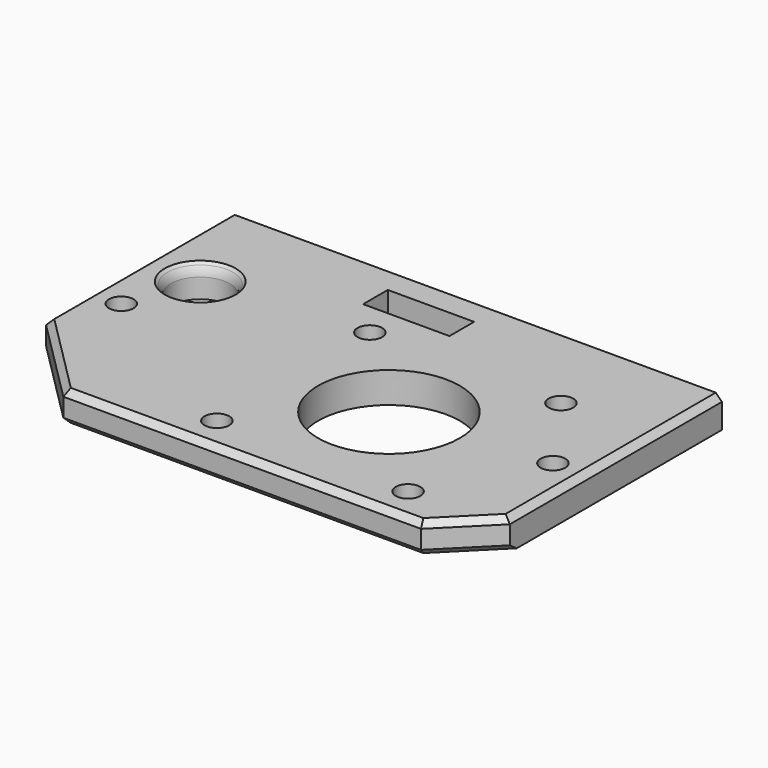
from build123d import *

# Parameters (mm, degrees)
SKETCH003_R     = 11.5
SKETCH003_R_2   = 2
SKETCH003_R_3   = 4.75
SKETCH003_W     = 14
SKETCH003_H     = 5
PAD001_DEPTH    = 5
PAD013_DEPTH    = 6
SKETCH048_R     = 1.4
POCKET038_DEPTH = 5
CHAMFER019_SIZE = 1
CHAMFER020_SIZE = 1
CHAMFER021_SIZE = 1
FILLET_R        = 2


with BuildPart() as part:
    # Sketch003 → Pad001 (new body)
    with BuildSketch(Plane.XY):
        Polygon((-40, 40), (40, 40), (40, -3), (32, -11), (-26, -11), (-40, 3), align=None)
        with Locations((10, 10)):
            Circle(SKETCH003_R, mode=Mode.SUBTRACT)
        with Locations((-35, 12)):
            Circle(SKETCH003_R_2, mode=Mode.SUBTRACT)
        with Locations((35, 12)):
            Circle(SKETCH003_R_2, mode=Mode.SUBTRACT)
        with Locations((25.5, -5.5)):
            Circle(SKETCH003_R_2, mode=Mode.SUBTRACT)
        with Locations((-5.5, 25.5)):
            Circle(SKETCH003_R_2, mode=Mode.SUBTRACT)
        with Locations((-31, 23)):
            Circle(SKETCH003_R_3, mode=Mode.SUBTRACT)
        with Locations((25.5, 25.5)):
            Circle(SKETCH003_R_2, mode=Mode.SUBTRACT)
        with Locations((-5.5, -5.5)):
            Circle(SKETCH003_R_2, mode=Mode.SUBTRACT)
        with Locations((-4.017783, 33.539897)):
            Rectangle(SKETCH003_W, SKETCH003_H, mode=Mode.SUBTRACT)
    extrude(amount=PAD001_DEPTH)

    # Sketch047 → Pad013 (join)
    with BuildSketch(Plane(origin=(0, 40, 0), x_dir=(-1, 0, 0), z_dir=(0, 1, 0))):
        with BuildLine():
            ThreePointArc((-33.5, 1.000024), (-30, -2.5), (-26.5, 1.000024))
            Line((-33.5, 1.000024), (-26.5, 1.000024))
        make_face()
        with BuildLine():
            ThreePointArc((26.5, 1.000024), (30, -2.5), (33.5, 1.000024))
            Line((26.5, 1.000024), (33.5, 1.000024))
        make_face()
    extrude(amount=-PAD013_DEPTH)

    # Sketch048 → Pocket038 (cut)
    with BuildSketch(Plane(origin=(0, 40, 0), x_dir=(-1, 0, 0), z_dir=(0, 1, 0))):
        with Locations((-30, 1)):
            Circle(SKETCH048_R)
        with Locations((30, 1)):
            Circle(SKETCH048_R)
    extrude(amount=-POCKET038_DEPTH, mode=Mode.SUBTRACT)

    # Chamfer019
    chamfer019_edges = [part.edges().sort_by_distance(p)[0] for p in [
        (40, 18.5, 5),
        (-40, 21.5, 5),
        (-33, -4, 5),
        (3, -11, 5),
        (36, -7, 5),
    ]]
    chamfer(chamfer019_edges, length=CHAMFER019_SIZE)

    # Chamfer020
    chamfer020_edges = [part.edges().sort_by_distance(p)[0] for p in [
        (36, -7, 0),
        (3, -11, 0),
        (-33, -4, 0),
    ]]
    chamfer(chamfer020_edges, length=CHAMFER020_SIZE)

    # Chamfer021
    chamfer021_edges = [part.edges().sort_by_distance(p)[0] for p in [
        (-35.75, 23, 5),
    ]]
    chamfer(chamfer021_edges, length=CHAMFER021_SIZE)

    # Fillet
    fillet_edges = [part.edges().sort_by_distance(p)[0] for p in [
        (-35.75, 23, 4),
    ]]
    fillet(fillet_edges, radius=FILLET_R)


with BuildPart() as part_1:
    # Body001 placement: moved
    add(part.part.moved(Location((0, 0, 50))))


solid = part_1.part
